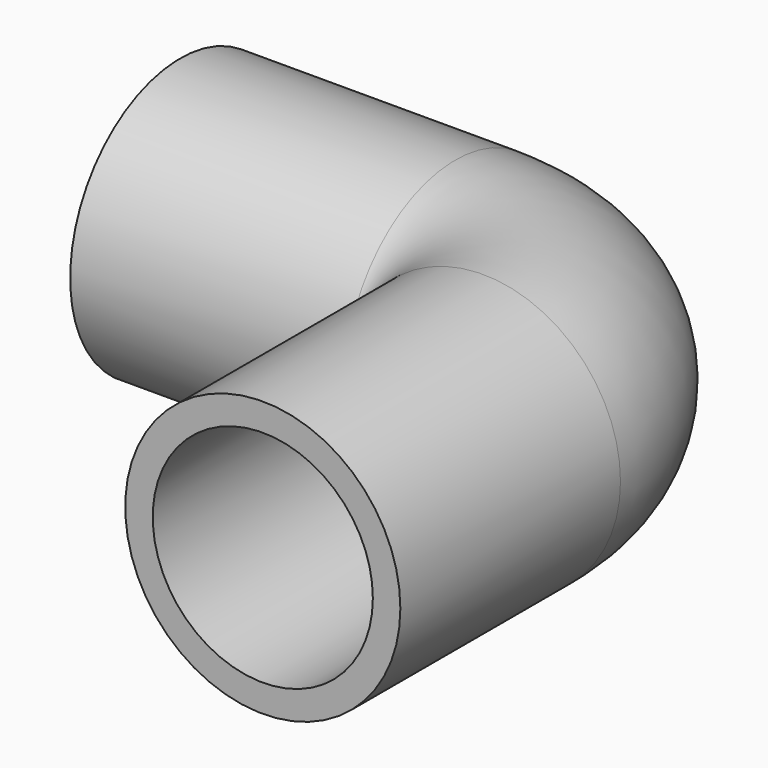
from build123d import *

# Parameters (mm, degrees)
F2_R   = 10
F2_R_2 = 8


with BuildPart() as f3:
    # F3: sweep along a path in F0
    with BuildLine(Plane.XY) as f3_path:
        Line((-30, 0), (-10, 0))
        ThreePointArc((-10, 0), (-2.9289321881, -2.9289321881), (0, -10))
        Line((0, -10), (0, -30))
    # F2 (on offset) → F3 (sweep)
    with BuildSketch(Plane.YZ.offset(-25)):
        Circle(F2_R)
        Circle(F2_R_2, mode=Mode.SUBTRACT)
    sweep(path=f3_path.line)


solid = f3.part
